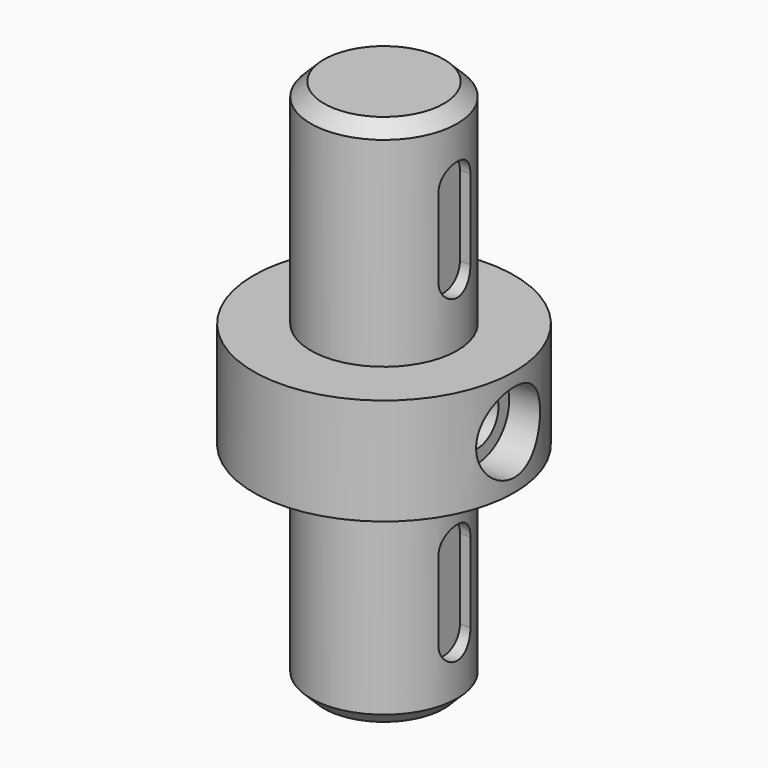
from build123d import *

# Parameters (mm, degrees)
F0_R      = 11
F1_DEPTH  = 40
F3_SIZE   = 2
F4_SIZE   = 2
F5_R      = 19.577799
F6_DEPTH  = 8
F8_R      = 6
F9_DEPTH  = 30
F11_R     = 4
F12_DEPTH = 33.578799
F15_DEPTH = 10.578799
F17_DEPTH = 25


with BuildPart() as f1:
    # F0 (on Top) → F1 (new body, symmetric)
    with BuildSketch(Plane.XY):
        Circle(F0_R)
    extrude(amount=F1_DEPTH, both=True)

    # F3
    f3_edges = [f1.edges().sort_by_distance(p)[0] for p in [
        (-11, 0, 40),
    ]]
    chamfer(f3_edges, length=F3_SIZE)

    # F4
    f4_edges = [f1.edges().sort_by_distance(p)[0] for p in [
        (-11, 0, -40),
    ]]
    chamfer(f4_edges, length=F4_SIZE)

    # F5 (on Top) → F6 (join, symmetric)
    with BuildSketch(Plane.XY):
        Circle(F5_R)
    extrude(amount=F6_DEPTH, both=True)

    # F8 (on offset) → F9 (cut)
    with BuildSketch(Plane.YZ.offset(14)):
        Circle(F8_R)
    extrude(amount=F9_DEPTH, mode=Mode.SUBTRACT)

    # F11 (on offset) → F12 (cut, through all)
    with BuildSketch(Plane.YZ.offset(14)):
        Circle(F11_R)
    extrude(amount=-F12_DEPTH, mode=Mode.SUBTRACT)

    # F14 (on offset) → F15 (cut, through all)
    with BuildSketch(Plane.YZ.offset(9)):
        with BuildLine():
            Line((3, 18), (3, 30))
            ThreePointArc((3, 30), (0, 33), (-3, 30))
            Line((-3, 30), (-3, 18))
            ThreePointArc((-3, 18), (0, 15), (3, 18))
        make_face()
    extrude(amount=F15_DEPTH, mode=Mode.SUBTRACT)

    # F16 (on offset) → F17 (cut)
    with BuildSketch(Plane.YZ.offset(9)):
        with BuildLine():
            Line((-3, -18), (-3, -30))
            ThreePointArc((-3, -30), (0, -33), (3, -30))
            Line((3, -30), (3, -18))
            ThreePointArc((3, -18), (0, -15), (-3, -18))
        make_face()
    extrude(amount=F17_DEPTH, mode=Mode.SUBTRACT)


solid = f1.part
